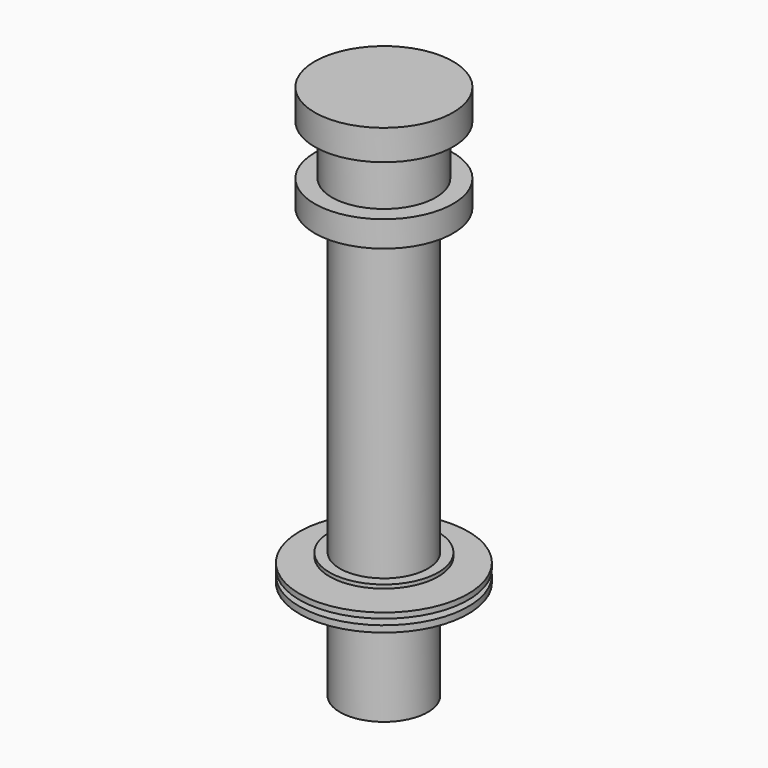
from build123d import *


with BuildPart() as f1:
    # F0 (on Front) → F1 (revolve)
    with BuildSketch(Plane.XZ):
        Polygon((0, -62), (0, 0), (-8, 0), (-8, -3.5), (-6, -3.5), (-6, -9.3), (-8, -9.3), (-8, -12.3), (-5.087018, -12.3), (-5.087018, -47.38391), (-6.285568, -47.38391), (-6.285568, -47.808396), (-5.087018, -47.808396), (-5.087018, -48.432641), (-9.75637, -48.432641), (-9.75637, -49.056886), (-5.087018, -49.056886), (-5.087018, -49.731071), (-9.75637, -49.731071), (-9.75637, -50.480166), (-5.087018, -50.480166), (-5.087018, -62), align=None)
    revolve(axis=Axis((0, 0, -31), (0, 0, 1)))


solid = f1.part
